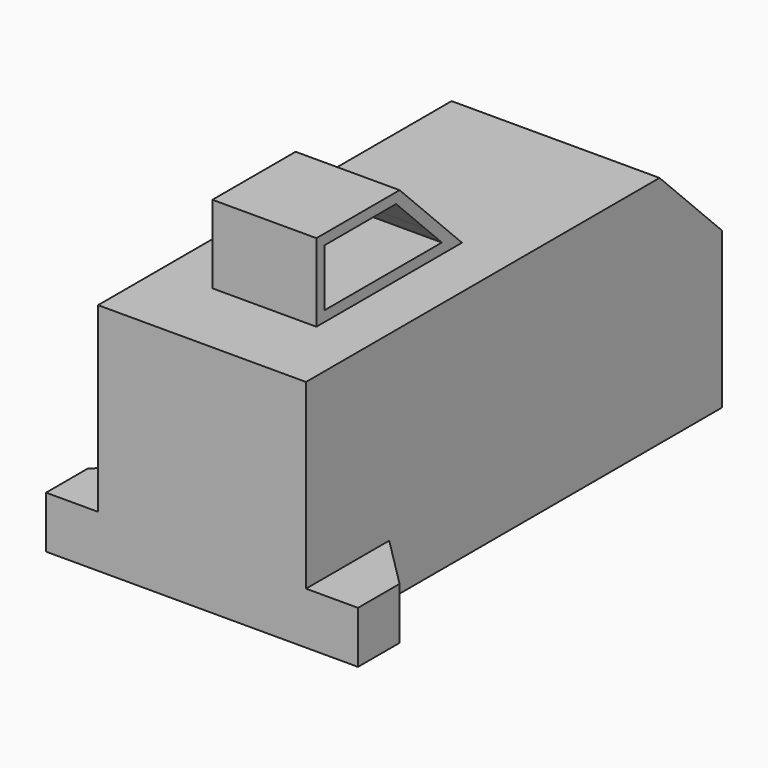
from build123d import *

# Parameters (mm, degrees)
F1_DEPTH = 25.4
F0_W     = 25.4
F0_H     = 12.7
F2_DEPTH = 38.1
F3_DEPTH = 12.7
F5_DEPTH = 12.7
F7_DEPTH = 12.7


with BuildPart() as f1:
    # F0 (on Right) → F1 (new body)
    with BuildSketch(Plane.YZ):
        Polygon((25.4, 12.7), (25.4, 0), (127, 0), (127, 38.1), (107.95, 57.15), (63.5, 57.15), (19.05, 57.15), (0, 57.15), (0, 12.7), align=None)
    extrude(amount=F1_DEPTH)

    # F0 (on Right) → F2 (join)
    with BuildSketch(Plane.YZ):
        with Locations((12.7, 6.35)):
            Rectangle(F0_W, F0_H)
    extrude(amount=F2_DEPTH)

    # F0 (on Right) → F3 (join)
    with BuildSketch(Plane.YZ):
        Polygon((19.05, 76.2), (19.05, 57.15), (63.5, 57.15), (44.45, 76.2), align=None)
    extrude(amount=F3_DEPTH)

    # F4 (on face) → F5 (cut)
    with BuildSketch(Plane.XY.offset(12.7)):
        Polygon((25.4, 25.4), (38.1, 12.7), (38.1, 25.4), align=None)
    extrude(amount=-F5_DEPTH, mode=Mode.SUBTRACT)

    # F6 (on face) → F7 (cut)
    with BuildSketch(Plane.YZ.offset(12.7)):
        Polygon((43.3805931771, 73.66), (21.59, 73.66), (21.59, 59.69), (57.3505931771, 59.69), (52.1702965885, 64.8702965885), align=None)
    extrude(amount=-F7_DEPTH, mode=Mode.SUBTRACT)

    # F8: F1 across plane


with BuildPart() as f1_1:
    add(f1.part)
    add(f1.part.mirror(Plane.YZ))


solid = f1_1.part
